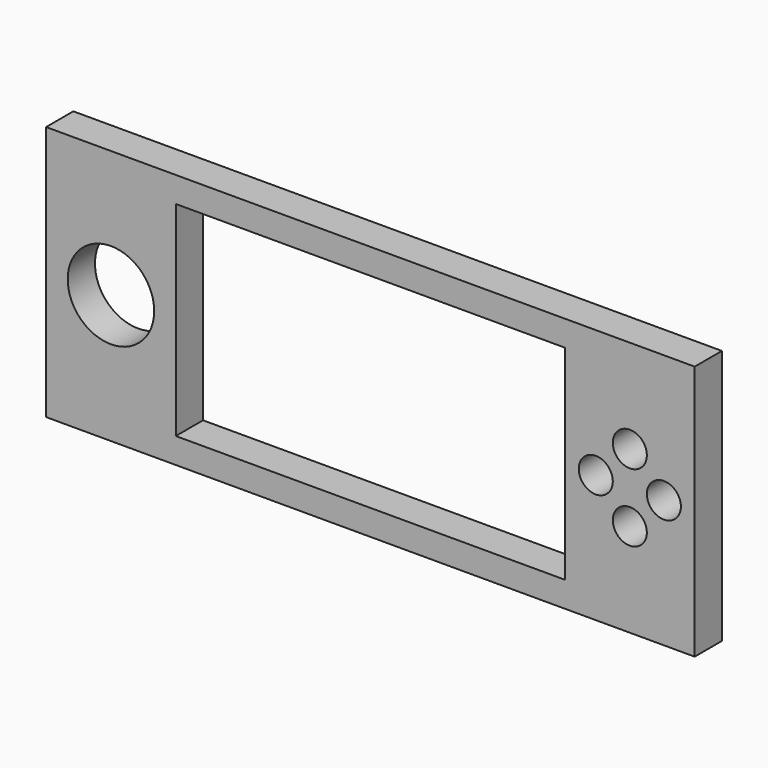
from build123d import *

# Parameters (mm, degrees)
F0_R     = 5
F0_R_2   = 12.7
F1_DEPTH = 10


with BuildPart() as f1:
    # F0 (on Front) → F1 (new body)
    with BuildSketch(Plane.XZ):
        Polygon((38.1, 0), (0, 0), (0, -75), (38.1, -75), (152.4, -75), (190.5, -75), (190.5, 0), (152.4, 0), align=None)
        with Locations((171.45, -47.5)):
            Circle(F0_R, mode=Mode.SUBTRACT)
        with Locations((19.05, -37.2745)):
            Circle(F0_R_2, mode=Mode.SUBTRACT)
        Polygon((38.1, -67.5), (38.1, -7.5), (91.578797, -7.5), (152.4, -7.5), (152.4, -67.5), (89.189894, -67.5), align=None, mode=Mode.SUBTRACT)
        with Locations((161.45, -37.5)):
            Circle(F0_R, mode=Mode.SUBTRACT)
        with Locations((181.45, -37.5)):
            Circle(F0_R, mode=Mode.SUBTRACT)
        with Locations((171.45, -27.5)):
            Circle(F0_R, mode=Mode.SUBTRACT)
    extrude(amount=F1_DEPTH)


solid = f1.part
